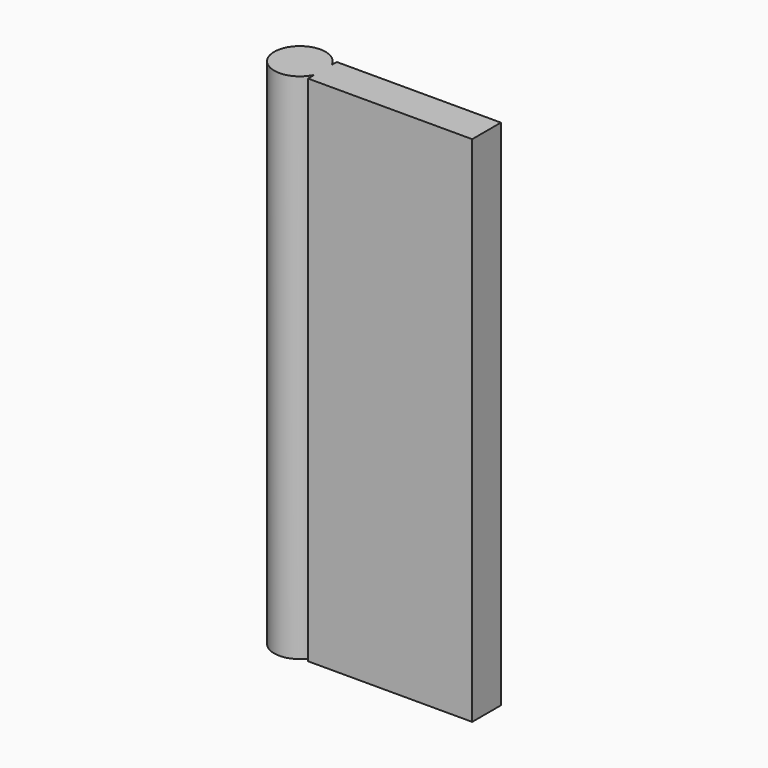
from build123d import *

# Parameters (mm, degrees)
F1_DEPTH = 100


with BuildPart() as f1:
    # F0 (on Top) → F1 (new body)
    with BuildSketch(Plane.XY):
        with BuildLine():
            Line((0, 1.568513), (0, 0))
            Line((0, 0), (32, 0))
            Line((32, 0), (32, 7))
            Line((32, 7), (0, 7))
            Line((0, 7), (0, 5.791019))
            ThreePointArc((0, 5.791019), (-9.532396, 3.679766), (0, 1.568513))
        make_face()
        with BuildLine():
            Line((0, 1.568513), (0, 0))
            Line((0, 0), (32, 0))
            Line((32, 0), (32, 7))
            Line((32, 7), (0, 7))
            Line((0, 7), (0, 5.791019))
            ThreePointArc((0, 5.791019), (-9.532396, 3.679766), (0, 1.568513))
        make_face()
    extrude(amount=F1_DEPTH)


solid = f1.part
